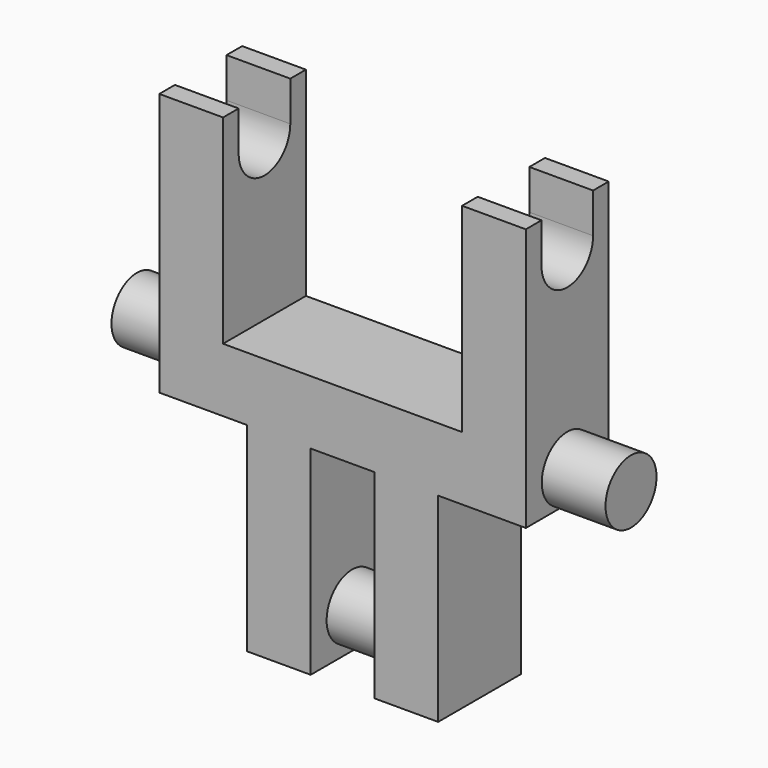
from build123d import *

# Parameters (mm, degrees)
PAD_DEPTH               = 13
POCKET_DEPTH            = 46.001
CYLINDER_R              = 4
CYLINDER_DEPTH          = 16
CYLINDER_PITCH_ANGLE    = 90
CYLINDER001_R           = 4
CYLINDER001_DEPTH       = 62
CYLINDER001_PITCH_ANGLE = 90


with BuildPart() as pocket:
    # Sketch → Pad (new body)
    with BuildSketch(Plane.XZ):
        Polygon((-15, 29), (-15, 4), (15, 4), (15, 29), (23, 29), (23, -4), (12, -4), (12, -29), (4, -29), (4, -4), (-4, -4), (-4, -29), (-12, -29), (-12, -4), (-23, -4), (-23, 29), align=None)
    extrude(amount=PAD_DEPTH)

    # Sketch001 → Pocket (cut, through all)
    with BuildSketch(Plane(origin=(-23, 0, 0), x_dir=(0, 0, -1), z_dir=(-1, 0, 0))):
        with BuildLine():
            Line((-29, 10.55), (-24, 10.55))
            ThreePointArc((-24, 2.45), (-19.95, 6.5), (-24, 10.55))
            Line((-24, 2.45), (-29, 2.45))
            Line((-29, 2.45), (-29, 10.55))
        make_face()
    extrude(amount=-POCKET_DEPTH, mode=Mode.SUBTRACT)


with BuildPart() as cylinder:
    # Cylinder → Cylinder (new body)
    with BuildSketch(Plane.XY):
        Circle(CYLINDER_R)
    extrude(amount=CYLINDER_DEPTH)


with BuildPart() as cylinder_1:
    # Cylinder pitch: moved
    add(cylinder.part.rotate(Axis((0, 0, 0), (0, 1, 0)), CYLINDER_PITCH_ANGLE))


with BuildPart() as cylinder_2:
    # Cylinder placement: moved
    add(cylinder_1.part.moved(Location((-8, -6.5, -24))))


with BuildPart() as cylinder001:
    # Cylinder001 → Cylinder001 (new body)
    with BuildSketch(Plane.XY):
        Circle(CYLINDER001_R)
    extrude(amount=CYLINDER001_DEPTH)


with BuildPart() as cylinder001_1:
    # Cylinder001 pitch: moved
    add(cylinder001.part.rotate(Axis((0, 0, 0), (0, 1, 0)), CYLINDER001_PITCH_ANGLE))


with BuildPart() as cylinder001_2:
    # Cylinder001 placement: moved
    add(cylinder001_1.part.moved(Location((-31, -6.5, 0))))


solid = Compound([pocket.part, cylinder_2.part, cylinder001_2.part])
